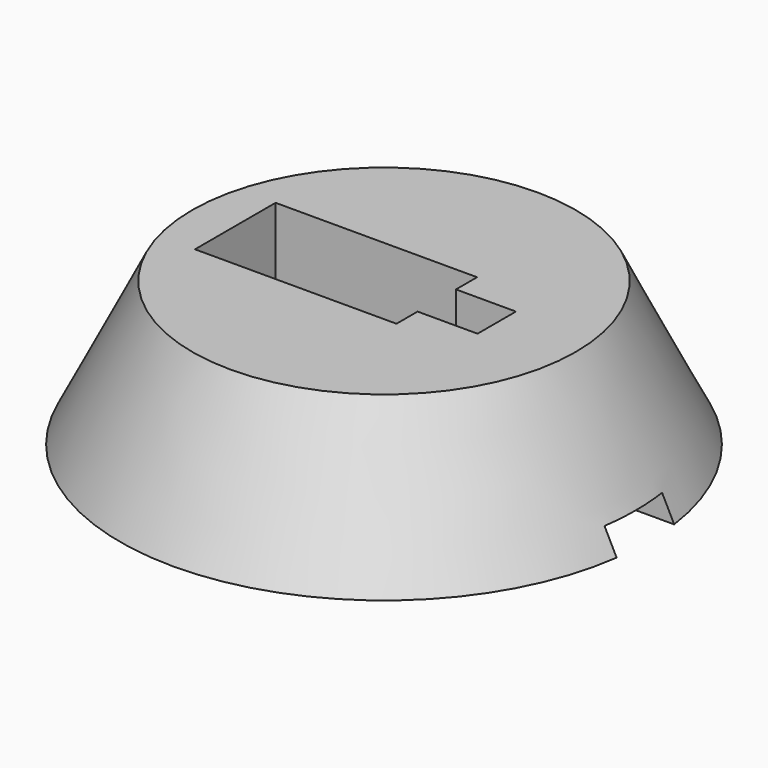
from build123d import *

# Parameters (mm, degrees)
F0_R      = 40
F2_R      = 55
F3_W      = 11
F3_H      = 10.5
F5_DEPTH  = 15
F7_W      = 51.318744
F7_H      = 15
F8_DEPTH  = 5
F10_DEPTH = 25


with BuildPart() as f4:
    # F0 (on Top) → F4 section 0
    with BuildSketch(Plane.XY):
        Circle(F0_R)
    # F2 (on offset) → F4 section 1
    with BuildSketch(Plane.XY.offset(-30)):
        Circle(F2_R)
    loft()

    # F3 (on Top) → F5 (cut)
    with BuildSketch(Plane.XY):
        Polygon((0, 0), (0, 10.5), (-31, 10.5), (-31, -10.5), (11, -10.5), (11, 0), align=None)
        with Locations((5.5, 5.25)):
            Rectangle(F3_W, F3_H)
    extrude(amount=-F5_DEPTH, mode=Mode.SUBTRACT)

    # F7 (on face) → F8 (cut)
    with BuildSketch(Plane(origin=(0, 0, -30), x_dir=(1, 0, 0), z_dir=(0, 0, -1))):
        with Locations((30.659372, 0)):
            Rectangle(F7_W, F7_H)
    extrude(amount=-F8_DEPTH, mode=Mode.SUBTRACT)

    # F9 (on face) → F10 (cut)
    with BuildSketch(Plane.XY):
        Polygon((11, 5), (11, 0), (11, -5), (23.5, -5), (23.5, 5), align=None)
    extrude(amount=-F10_DEPTH, mode=Mode.SUBTRACT)


solid = f4.part
